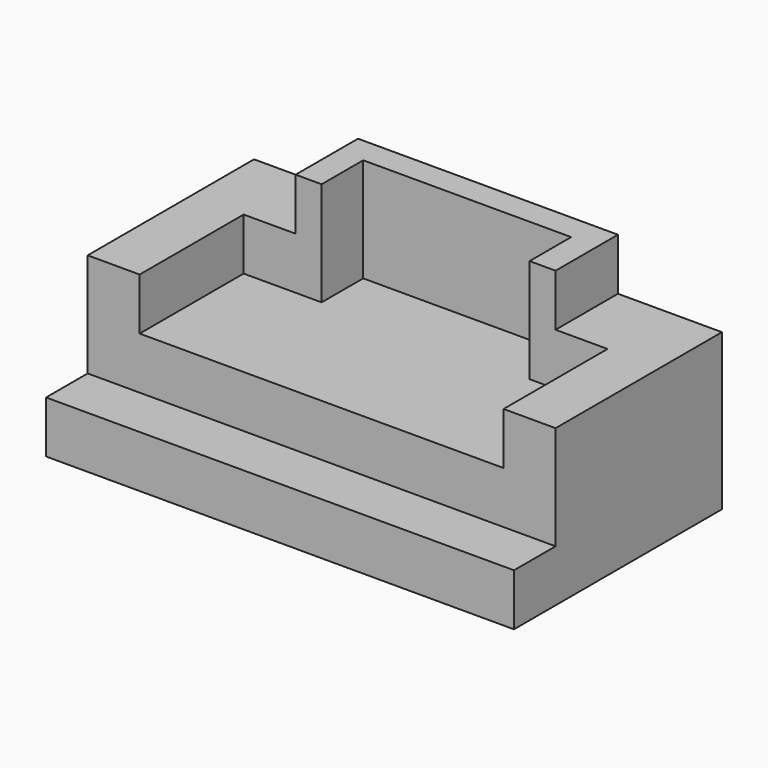
from build123d import *

# Parameters (mm, degrees)
F0_W     = 114.3
F0_H     = 63.5
F1_DEPTH = 12.7
F2_W     = 114.3
F2_H     = 50.8
F3_DEPTH = 12.7
F5_DEPTH = 12.7
F7_DEPTH = 12.7


with BuildPart() as f1:
    # F0 (on Top) → F1 (new body)
    with BuildSketch(Plane.XY):
        with Locations((57.15, 31.75)):
            Rectangle(F0_W, F0_H)
    extrude(amount=F1_DEPTH)

    # F2 (on face) → F3 (join)
    with BuildSketch(Plane.XY.offset(12.7)):
        with Locations((57.15, 38.1)):
            Rectangle(F2_W, F2_H)
    extrude(amount=F3_DEPTH)

    # F4 (on face) → F5 (join)
    with BuildSketch(Plane.XY.offset(25.4)):
        Polygon((0, 12.7), (12.7, 12.7), (12.7, 44.45), (31.75, 44.45), (31.75, 57.15), (82.55, 57.15), (82.55, 44.45), (101.6, 44.45), (101.6, 12.7), (114.3, 12.7), (114.3, 63.5), (0, 63.5), align=None)
    extrude(amount=F5_DEPTH)

    # F6 (on face) → F7 (join)
    with BuildSketch(Plane.XY.offset(38.1)):
        Polygon((25.4, 63.5), (25.4, 44.45), (31.75, 44.45), (31.75, 57.15), (82.55, 57.15), (82.55, 44.45), (88.9, 44.45), (88.9, 63.5), align=None)
    extrude(amount=F7_DEPTH)


solid = f1.part
